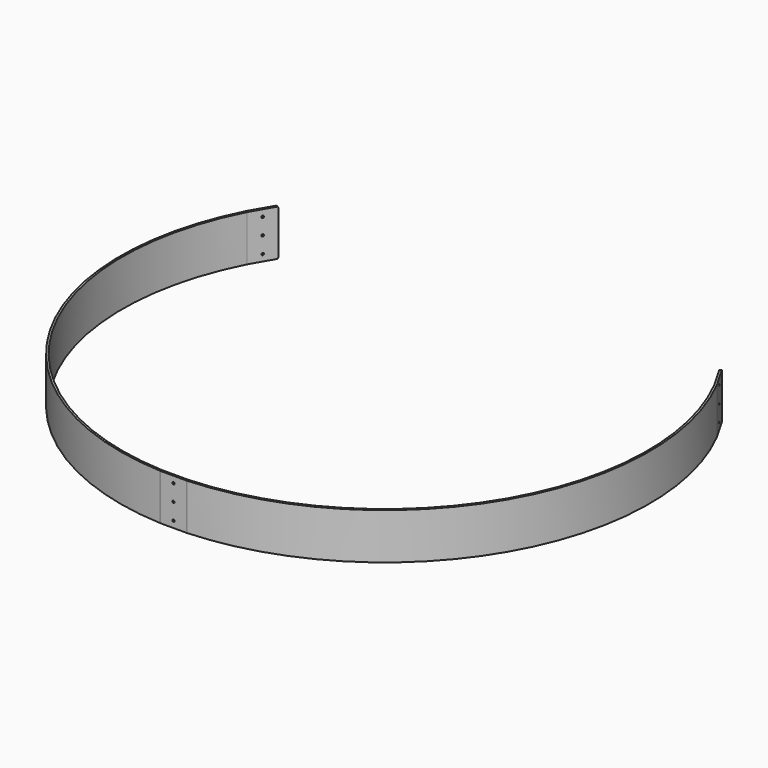
from build123d import *

# Parameters (mm, degrees)
PAD001_DEPTH          = 70
SKETCH007_R           = 1.7
POCKET002_DEPTH       = 2438.582526
POLARPATTERN001_COUNT = 3
POCKET003_DEPTH       = 2494.311679


with BuildPart() as part:
    # Sketch006 → Pad001 (new body)
    with BuildSketch(Plane.XY):
        with BuildLine():
            ThreePointArc((20.253569, -398.856102), (345.928021, -199.575052), (355.430597, 182.113941))
            ThreePointArc((355.430597, 182.113941), (355.372093, 182.224683), (355.310833, 182.333925))
            Line((355.310833, 182.333925), (335.436031, 216.758093))
            Line((335.436031, 216.758093), (338.034107, 218.258093))
            Line((338.034107, 218.258093), (357.90891, 183.833925))
            ThreePointArc((358.100532, 183.48195), (358.006925, 183.659138), (357.90891, 183.833925))
            ThreePointArc((20.40571, -401.852241), (348.526574, -201.074226), (358.100532, 183.48195))
            ThreePointArc((20, -401.862536), (20.20292, -401.859962), (20.40571, -401.852241))
            Line((-20, -401.862536), (20, -401.862536))
            ThreePointArc((-20.40571, -401.852241), (-20.20292, -401.859962), (-20, -401.862536))
            ThreePointArc((-358.100532, 183.48195), (-348.526574, -201.074226), (-20.40571, -401.852241))
            ThreePointArc((-357.90891, 183.833925), (-358.006925, 183.659138), (-358.100532, 183.48195))
            Line((-357.90891, 183.833925), (-338.034107, 218.258093))
            Line((-338.034107, 218.258093), (-335.436031, 216.758093))
            Line((-355.310833, 182.333925), (-335.436031, 216.758093))
            ThreePointArc((-355.310833, 182.333925), (-355.372093, 182.224683), (-355.430597, 182.113941))
            ThreePointArc((-355.430597, 182.113941), (-345.928021, -199.575052), (-20.253569, -398.856102))
            ThreePointArc((-20.253569, -398.856102), (-20.126825, -398.860927), (-20, -398.862536))
            Line((-20, -398.862536), (20, -398.862536))
            ThreePointArc((20, -398.862536), (20.126825, -398.860927), (20.253569, -398.856102))
        make_face()
    extrude(amount=PAD001_DEPTH)

    # Sketch007 → Pocket002 (cut, through all)
    with BuildSketch(Plane.XZ):
        with Locations((0, 35)):
            Circle(SKETCH007_R)
        with Locations((0, 60)):
            Circle(SKETCH007_R)
        with Locations((0, 10)):
            Circle(SKETCH007_R)
    pocket002 = extrude(amount=POCKET002_DEPTH, mode=Mode.SUBTRACT)

    # PolarPattern001: Pocket002 ×3 about axis
    polarpattern001_axis = Axis((0, 0, 0), (0, 0, 1))
    for i in range(1, POLARPATTERN001_COUNT):
        add(pocket002.rotate(polarpattern001_axis, i * 360 / POLARPATTERN001_COUNT), mode=Mode.SUBTRACT)

    # Sketch008 → Pocket003 (cut, through all)
    with BuildSketch(Plane(origin=(0, 0, 0), x_dir=(0.5, -0.866025, 0), z_dir=(-0.866025, -0.5, 0))):
        with BuildLine():
            ThreePointArc((-20, 2.000018), (-19.414214, 0.585786), (-17.999982, 0))
            Line((-20, 0), (-17.999982, 0))
            Line((-20, 2.000018), (-20, 0))
        make_face()
        with BuildLine():
            ThreePointArc((-17.999982, 70), (-19.414209, 69.414209), (-20, 67.999982))
            Line((-20, 67.999982), (-20, 70))
            Line((-20, 70), (-17.999982, 70))
        make_face()
    pocket003 = extrude(amount=-POCKET003_DEPTH, mode=Mode.SUBTRACT)

    # Mirrored002: Pocket003 across YZ
    add(pocket003.mirror(Plane.YZ), mode=Mode.SUBTRACT)


solid = part.part
